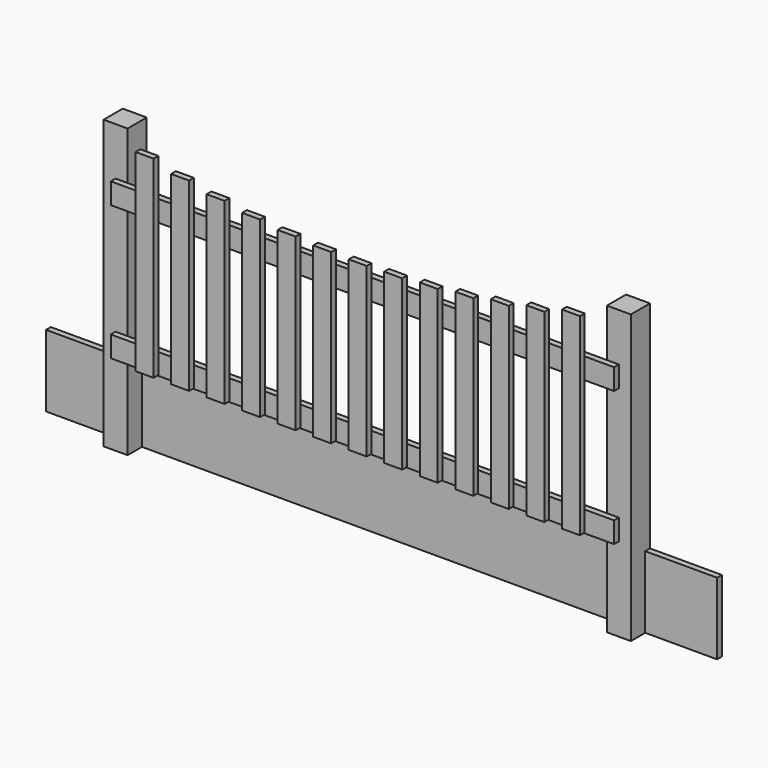
from build123d import *

# Parameters (mm, degrees)
F0_W     = 101.6
F0_H     = 1371.6
F1_DEPTH = 101.6
F2_W     = 2844.8
F2_H     = 508
F3_DEPTH = 25.4
F4_W     = 2133.6
F4_H     = 88.9
F5_DEPTH = 25.4
F6_W     = 76.2
F6_H     = 817.835607
F6_H_2   = 784.935771
F6_H_3   = 758.227604
F6_H_4   = 737.582462
F6_H_5   = 722.903341
F6_H_6   = 714.122526
F7_DEPTH = 25.4
F8_W     = 4864.425036
F8_H     = 579.639387
F9_DEPTH = 101.601


with BuildPart() as f1:
    # F0 (on Front) → F1 (new body)
    with BuildSketch(Plane.XZ):
        with Locations((0, 685.8)):
            Rectangle(F0_W, F0_H)
        with Locations((2133.6, 685.8)):
            Rectangle(F0_W, F0_H)
    extrude(amount=F1_DEPTH)


with BuildPart() as f3:
    # F2 (on Front) → F3 (new body)
    with BuildSketch(Plane.XZ):
        with Locations((1066.8, 203.2)):
            Rectangle(F2_W, F2_H)
    extrude(amount=F3_DEPTH)


with BuildPart() as f5:
    # F4 (on face) → F5 (new body)
    with BuildSketch(Plane.XZ.offset(101.6)):
        with Locations((1066.8, 552.45)):
            Rectangle(F4_W, F4_H)
        with Locations((1066.8, 1123.95)):
            Rectangle(F4_W, F4_H)
    extrude(amount=F5_DEPTH)


with BuildPart() as f7:
    # F6 (on face) → F7 (new body)
    with BuildSketch(Plane.XZ.offset(127)):
        with Locations((163.322, 919.965803)):
            Rectangle(F6_W, F6_H)
        with Locations((313.944, 903.515885)):
            Rectangle(F6_W, F6_H_2)
        with Locations((464.566, 890.161802)):
            Rectangle(F6_W, F6_H_3)
        with Locations((615.188, 879.839231)):
            Rectangle(F6_W, F6_H_4)
        with Locations((765.81, 872.49967)):
            Rectangle(F6_W, F6_H_5)
        with Locations((916.432, 868.109263)):
            Rectangle(F6_W, F6_H_6)
        Polygon((1028.954, 1222.248), (1028.954, 511.048), (1105.154, 511.048), (1105.154, 1222.248), (1067.054, 1222.248), align=None)
        with Locations((1217.676, 868.109263)):
            Rectangle(F6_W, F6_H_6)
        with Locations((1368.298, 872.49967)):
            Rectangle(F6_W, F6_H_5)
        with Locations((1518.92, 879.839231)):
            Rectangle(F6_W, F6_H_4)
        with Locations((1669.542, 890.161802)):
            Rectangle(F6_W, F6_H_3)
        with Locations((1820.164, 903.515885)):
            Rectangle(F6_W, F6_H_2)
        with Locations((1970.786, 919.965803)):
            Rectangle(F6_W, F6_H)
    extrude(amount=F7_DEPTH)


with BuildPart() as f9_tool:
    # F8 (on face) → F9 (new body, through all)
    with BuildSketch(Plane.XZ.offset(101.6)):
        with Locations((1177.699417, -137.419693)):
            Rectangle(F8_W, F8_H)
    extrude(amount=-F9_DEPTH)


with BuildPart() as f1_1:
    add(f1.part)

    # F9: cut by f9_tool
    add(f9_tool.part, mode=Mode.SUBTRACT)


with BuildPart() as f3_1:
    add(f3.part)

    # F9: cut by f9_tool
    add(f9_tool.part, mode=Mode.SUBTRACT)


solid = Compound([f5.part, f7.part, f1_1.part, f3_1.part])
